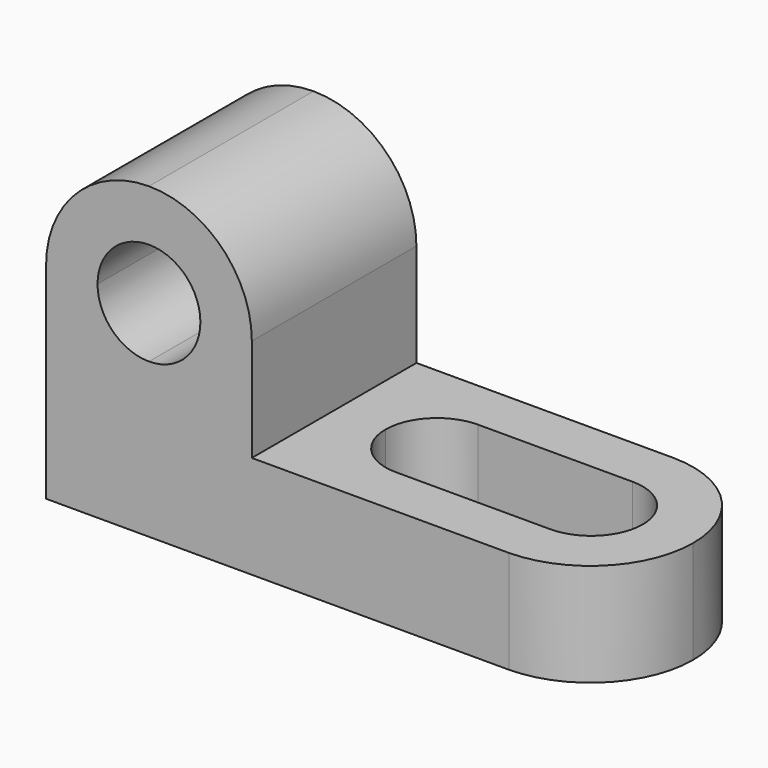
from build123d import *

# Parameters (mm, degrees)
F1_DEPTH = 25.4
F2_DEPTH = 25.4
F4_DEPTH = 25.4


with BuildPart() as f1:
    # F0 (on Front) → F1 (new body)
    with BuildSketch(Plane.XZ):
        with BuildLine():
            Line((0, 25.4), (0, 0))
            Line((0, 0), (12.7, 0))
            Line((12.7, 0), (12.7, 12.7))
            ThreePointArc((12.7, 12.7), (3.7197438789, 16.4197438789), (0, 25.4))
        make_face()
        with BuildLine():
            ThreePointArc((12.7, 38.1), (3.7197438789, 34.3802561211), (0, 25.4))
            Line((0, 25.4), (6.35, 25.4))
            ThreePointArc((6.35, 25.4), (8.2098719395, 29.8901280605), (12.7, 31.75))
            Line((12.7, 31.75), (12.7, 38.1))
        make_face()
        with BuildLine():
            Line((0, 38.1), (0, 25.4))
            ThreePointArc((0, 25.4), (3.7197438789, 34.3802561211), (12.7, 38.1))
            Line((12.7, 38.1), (0, 38.1))
        make_face()
        with BuildLine():
            Line((6.35, 25.4), (0, 25.4))
            ThreePointArc((0, 25.4), (3.7197438789, 16.4197438789), (12.7, 12.7))
            Line((12.7, 12.7), (12.7, 19.05))
            ThreePointArc((12.7, 19.05), (8.2098719395, 20.9098719395), (6.35, 25.4))
        make_face()
        with BuildLine():
            Line((12.7, 12.7), (12.7, 0))
            Line((12.7, 0), (69.85, 0))
            Line((69.85, 0), (69.85, 12.7))
            Line((69.85, 12.7), (25.4, 12.7))
            Line((25.4, 12.7), (25.4, 25.4))
            ThreePointArc((25.4, 25.4), (21.6802561211, 16.4197438789), (12.7, 12.7))
        make_face()
        with BuildLine():
            ThreePointArc((25.4, 25.4), (21.6802561211, 34.3802561211), (12.7, 38.1))
            Line((12.7, 38.1), (12.7, 31.75))
            ThreePointArc((12.7, 31.75), (17.1901280605, 29.8901280605), (19.05, 25.4))
            Line((19.05, 25.4), (25.4, 25.4))
        make_face()
        with BuildLine():
            Line((25.4, 38.1), (12.7, 38.1))
            ThreePointArc((12.7, 38.1), (21.6802561211, 34.3802561211), (25.4, 25.4))
            Line((25.4, 25.4), (25.4, 38.1))
        make_face()
        with BuildLine():
            Line((12.7, 19.05), (12.7, 12.7))
            ThreePointArc((12.7, 12.7), (21.6802561211, 16.4197438789), (25.4, 25.4))
            Line((25.4, 25.4), (19.05, 25.4))
            ThreePointArc((19.05, 25.4), (17.1901280605, 20.9098719395), (12.7, 19.05))
        make_face()
    extrude(amount=F1_DEPTH)

    # F0 (on Front) → F2 (cut)
    with BuildSketch(Plane.XZ):
        with BuildLine():
            Line((0, 38.1), (0, 25.4))
            ThreePointArc((0, 25.4), (3.7197438789, 34.3802561211), (12.7, 38.1))
            Line((12.7, 38.1), (0, 38.1))
        make_face()
        with BuildLine():
            Line((25.4, 38.1), (12.7, 38.1))
            ThreePointArc((12.7, 38.1), (21.6802561211, 34.3802561211), (25.4, 25.4))
            Line((25.4, 25.4), (25.4, 38.1))
        make_face()
    extrude(amount=F2_DEPTH, mode=Mode.SUBTRACT)

    # F3 (on face) → F4 (cut)
    with BuildSketch(Plane.XY.offset(12.7)):
        with BuildLine():
            ThreePointArc((44.45, -12.7), (42.5901280605, -8.2098719395), (38.1, -6.35))
            Line((38.1, -6.35), (38.1, -12.7))
            Line((38.1, -12.7), (44.45, -12.7))
        make_face()
        with BuildLine():
            Line((38.1, -12.7), (38.1, -6.35))
            ThreePointArc((38.1, -6.35), (33.6098719395, -8.2098719395), (31.75, -12.7))
            Line((31.75, -12.7), (38.1, -12.7))
        make_face()
        with BuildLine():
            Line((44.45, -12.7), (38.1, -12.7))
            Line((38.1, -12.7), (38.1, -19.05))
            ThreePointArc((38.1, -19.05), (42.5901280605, -17.1901280605), (44.45, -12.7))
        make_face()
        with BuildLine():
            Line((38.1, -19.05), (38.1, -12.7))
            Line((38.1, -12.7), (31.75, -12.7))
            ThreePointArc((31.75, -12.7), (33.6098719395, -17.1901280605), (38.1, -19.05))
        make_face()
        with BuildLine():
            ThreePointArc((63.5, -12.7), (61.6401280605, -8.2098719395), (57.15, -6.35))
            Line((57.15, -6.35), (57.15, -12.7))
            Line((57.15, -12.7), (63.5, -12.7))
        make_face()
        with BuildLine():
            Line((57.15, -12.7), (57.15, -6.35))
            ThreePointArc((57.15, -6.35), (52.6598719395, -8.2098719395), (50.8, -12.7))
            Line((50.8, -12.7), (57.15, -12.7))
        make_face()
        with BuildLine():
            Line((63.5, -12.7), (57.15, -12.7))
            Line((57.15, -12.7), (57.15, -19.05))
            ThreePointArc((57.15, -19.05), (61.6401280605, -17.1901280605), (63.5, -12.7))
        make_face()
        with BuildLine():
            Line((57.15, -12.7), (50.8, -12.7))
            ThreePointArc((50.8, -12.7), (52.6598719395, -17.1901280605), (57.15, -19.05))
            Line((57.15, -19.05), (57.15, -12.7))
        make_face()
        with BuildLine():
            Line((57.15, -6.35), (38.1, -6.35))
            ThreePointArc((38.1, -6.35), (42.5901280605, -8.2098719395), (44.45, -12.7))
            Line((44.45, -12.7), (50.8, -12.7))
            ThreePointArc((50.8, -12.7), (52.6598719395, -8.2098719395), (57.15, -6.35))
        make_face()
        with BuildLine():
            Line((50.8, -12.7), (44.45, -12.7))
            ThreePointArc((44.45, -12.7), (42.5901280605, -17.1901280605), (38.1, -19.05))
            Line((38.1, -19.05), (57.15, -19.05))
            ThreePointArc((57.15, -19.05), (52.6598719395, -17.1901280605), (50.8, -12.7))
        make_face()
        with BuildLine():
            Line((69.85, -12.7), (69.7292175596, -12.7))
            ThreePointArc((69.7292175596, -12.7), (66.0521098797, -21.6376550953), (57.15, -25.4))
            Line((57.15, -25.4), (69.85, -25.4))
            Line((69.85, -25.4), (69.85, -12.7))
        make_face()
        with BuildLine():
            Line((69.85, 0), (57.15, 0))
            ThreePointArc((57.15, 0), (66.0521098797, -3.7623449047), (69.7292175596, -12.7))
            Line((69.7292175596, -12.7), (69.85, -12.7))
            Line((69.85, -12.7), (69.85, 0))
        make_face()
    extrude(amount=-F4_DEPTH, mode=Mode.SUBTRACT)


solid = f1.part
